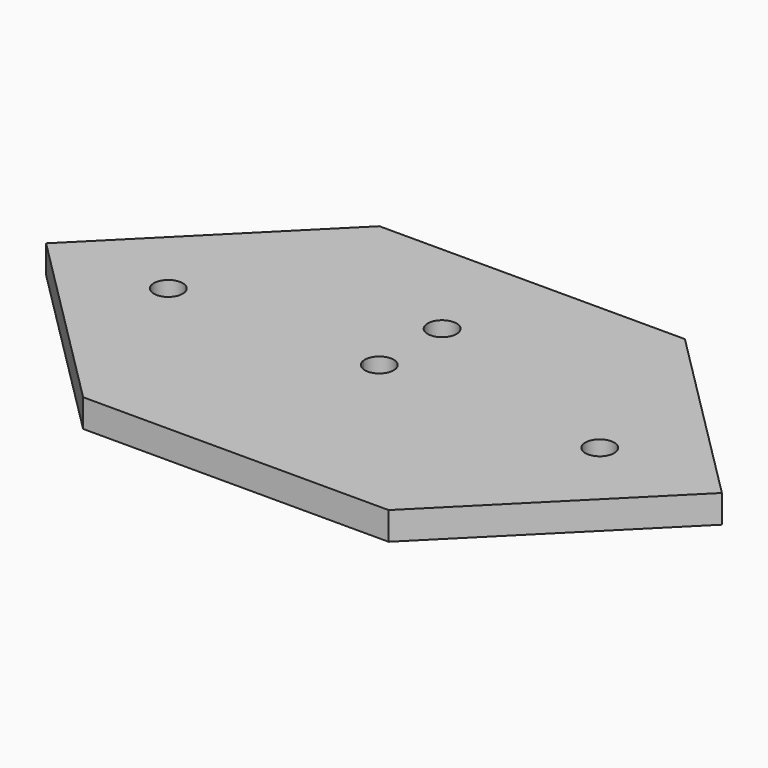
from build123d import *

# Parameters (mm, degrees)
F0_R     = 1.65
F1_DEPTH = 3.2


with BuildPart() as f1:
    # F0 (on Top) → F1 (new body)
    with BuildSketch(Plane.XY):
        with BuildLine():
            Line((37.238712, 0), (49.588712, 0))
            Line((49.588712, 0), (28.375508, 21.213203))
            Line((28.375508, 21.213203), (-6.624492, 21.213203))
            Line((-6.624492, 21.213203), (-27.837695, 0))
            Line((-27.837695, 0), (-15.487695, 0))
            ThreePointArc((-15.487695, 0), (-13.837695, 1.65), (-12.187695, 0))
            Line((-12.187695, 0), (8.526137, 0))
            ThreePointArc((8.526137, 0), (10.055479, 1.859742), (11.812305, 0.213203))
            ThreePointArc((11.812305, 0.213203), (11.808843, 0.106378), (11.798472, 0))
            Line((11.798472, 0), (33.938712, 0))
            ThreePointArc((33.938712, 0), (35.588712, 1.65), (37.238712, 0))
        make_face()
        with Locations((10.162305, 9.213203)):
            Circle(F0_R, mode=Mode.SUBTRACT)
        with BuildLine():
            Line((28.375508, -21.213203), (49.588712, 0))
            Line((49.588712, 0), (37.238712, 0))
            ThreePointArc((37.238712, 0), (35.588712, -1.65), (33.938712, 0))
            Line((33.938712, 0), (11.798472, 0))
            ThreePointArc((11.798472, 0), (10.162305, -1.436797), (8.526137, 0))
            Line((8.526137, 0), (-12.187695, 0))
            ThreePointArc((-12.187695, 0), (-13.837695, -1.65), (-15.487695, 0))
            Line((-15.487695, 0), (-27.837695, 0))
            Line((-27.837695, 0), (-6.624492, -21.213203))
            Line((-6.624492, -21.213203), (28.375508, -21.213203))
        make_face()
    extrude(amount=F1_DEPTH)


solid = f1.part
